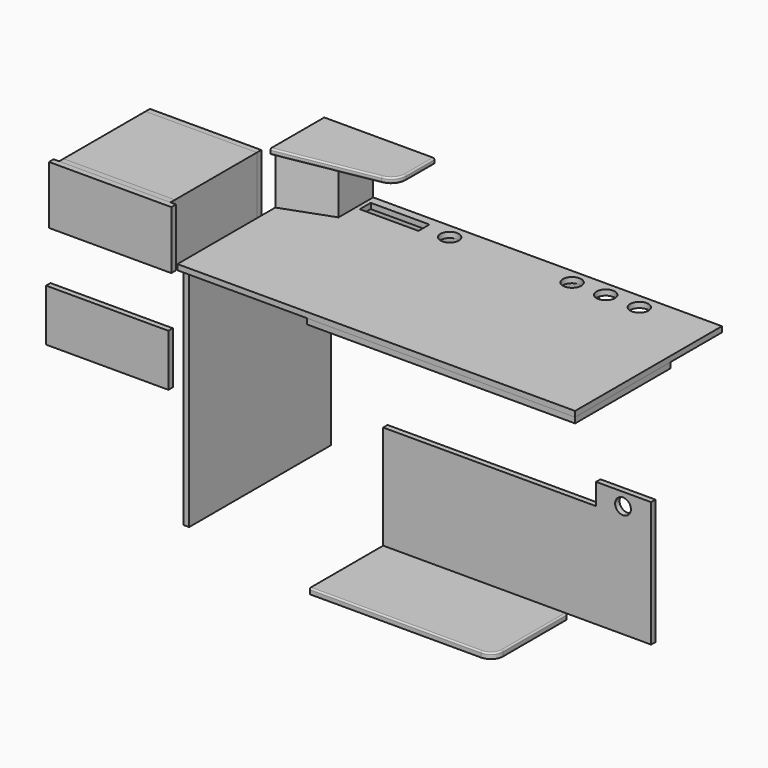
from build123d import *

# Parameters (mm, degrees)
F0_W      = 1300
F0_H      = 600
F0_W_2    = 192
F0_H_2    = 45
F0_R      = 30
F1_DEPTH  = 18
F2_W      = 876
F2_H      = 18
F3_DEPTH  = 60
F4_W      = 876
F4_H      = 138
F4_R      = 30
F5_DEPTH  = 18
F6_W      = 580
F6_H      = 740
F7_DEPTH  = 18
F9_DEPTH  = 160
F11_DEPTH = 18
F12_R     = 5
F13_W     = 364
F13_H     = 190
F13_R     = 55
F14_DEPTH = 18
F15_W     = 364
F15_H     = 190
F15_W_2   = 328
F15_H_2   = 154
F16_DEPTH = 335
F17_W     = 400
F17_H     = 190
F17_R     = 82.5
F18_DEPTH = 18
F19_W     = 364
F19_H     = 190
F20_DEPTH = 18
F21_W     = 876
F21_H     = 390
F22_DEPTH = 18
F23_R     = 25.726034
F24_DEPTH = 18
F26_DEPTH = 18
F27_R     = 5
F28_W     = 400
F28_H     = 170
F29_DEPTH = 18
F30_W     = 400
F30_H     = 190
F31_DEPTH = 1


with BuildPart() as f1:
    # F0 (on Top) → F1 (new body)
    with BuildSketch(Plane.XY):
        Rectangle(F0_W, F0_H)
        with Locations((-380, 250)):
            Rectangle(F0_W_2, F0_H_2, mode=Mode.SUBTRACT)
        with Locations((-200, 250)):
            Circle(F0_R, mode=Mode.SUBTRACT)
        with Locations((200, 250)):
            Circle(F0_R, mode=Mode.SUBTRACT)
        with Locations((310, 250)):
            Circle(F0_R, mode=Mode.SUBTRACT)
        with Locations((420, 250)):
            Circle(F0_R, mode=Mode.SUBTRACT)
    extrude(amount=F1_DEPTH)


with BuildPart() as f3:
    # F2 (on face) → F3 (new body)
    with BuildSketch(Plane(origin=(0, 0, 0), x_dir=(1, 0, 0), z_dir=(0, 0, -1))):
        with Locations((-189.740443, -291)):
            Rectangle(F2_W, F2_H)
    extrude(amount=F3_DEPTH)


with BuildPart() as f5:
    # F4 (on face) → F5 (new body)
    with BuildSketch(Plane(origin=(0, 0, -60), x_dir=(1, 0, 0), z_dir=(0, 0, -1))):
        with Locations((-189.740443, -231)):
            Rectangle(F4_W, F4_H)
        with Locations((188.259557, -230.498597)):
            Circle(F4_R, mode=Mode.SUBTRACT)
    extrude(amount=F5_DEPTH)


with BuildPart() as f7:
    # F6 (on face) → F7 (new body)
    with BuildSketch(Plane(origin=(-627.740443, 0, 0), x_dir=(0, -1, 0), z_dir=(-1, 0, 0))):
        with Locations((-10, -370)):
            Rectangle(F6_W, F6_H)
    extrude(amount=F7_DEPTH)


with BuildPart() as f9:
    # F8 (on face) → F9 (new body)
    with BuildSketch(Plane.XY.offset(18)):
        Polygon((-490, 300), (-650, 300), (-650, 100), (-490, 158.235237), align=None)
    extrude(amount=F9_DEPTH)


with BuildPart() as f11:
    # F10 (on face) → F11 (new body)
    with BuildSketch(Plane.XY.offset(178)):
        with BuildLine():
            Line((-650, 300), (-650, 80))
            Line((-650, 80), (-331.317591, 136.192307))
            ThreePointArc((-331.317591, 136.192307), (-301.697778, 153.293314), (-290, 185.432695))
            Line((-290, 185.432695), (-290, 300))
            Line((-290, 300), (-650, 300))
        make_face()
    extrude(amount=F11_DEPTH)

    # F12
    f12_edges = [f11.edges().sort_by_distance(p)[0] for p in [
        (-490.658796, 108.096153, 196),
        (-301.697778, 153.293314, 196),
        (-290, 242.716347, 196),
        (-490.658796, 108.096153, 178),
        (-301.697778, 153.293314, 178),
        (-290, 242.716347, 178),
    ]]
    fillet(f12_edges, radius=F12_R)


with BuildPart() as f14:
    # F13 (on Front) → F14 (new body)
    with BuildSketch(Plane.XZ):
        with Locations((-1080.317497, -95)):
            Rectangle(F13_W, F13_H)
        with Locations((-1080.317497, -95)):
            Circle(F13_R, mode=Mode.SUBTRACT)
    extrude(amount=F14_DEPTH)


with BuildPart() as f16:
    # F15 (on face) → F16 (new body)
    with BuildSketch(Plane(origin=(0, 0, 0), x_dir=(-1, 0, 0), z_dir=(0, 1, 0))):
        with Locations((1080.317497, -95)):
            Rectangle(F15_W, F15_H)
        with Locations((1080.317497, -95)):
            Rectangle(F15_W_2, F15_H_2, mode=Mode.SUBTRACT)
    extrude(amount=F16_DEPTH)


with BuildPart() as f18:
    # F17 (on face) → F18 (new body)
    with BuildSketch(Plane.XZ.offset(18)):
        with Locations((-1080.317497, -95)):
            Rectangle(F17_W, F17_H)
        with Locations((-1080.317497, -95)):
            Circle(F17_R, mode=Mode.SUBTRACT)
    extrude(amount=F18_DEPTH)


with BuildPart() as f20:
    # F19 (on face) → F20 (new body)
    with BuildSketch(Plane(origin=(0, 335, 0), x_dir=(-1, 0, 0), z_dir=(0, 1, 0))):
        with Locations((1080.317497, -95)):
            Rectangle(F19_W, F19_H)
    extrude(amount=F20_DEPTH)


with BuildPart() as f22:
    # F21 (on face) → F22 (new body)
    with BuildSketch(Plane(origin=(0, 0, 0), x_dir=(1, 0, 0), z_dir=(0, 0, -1))):
        with Locations((212, 105)):
            Rectangle(F21_W, F21_H)
    extrude(amount=F22_DEPTH)


with BuildPart() as f24:
    # F23 (on Front) → F24 (new body)
    with BuildSketch(Plane.XZ):
        Polygon((-202.982641, -761.721503), (673.017359, -761.721503), (673.017359, -351.721503), (493.017359, -351.721503), (493.017359, -421.721503), (-202.982641, -421.721503), align=None)
        with Locations((581.099927, -393.661082)):
            Circle(F23_R, mode=Mode.SUBTRACT)
    extrude(amount=F24_DEPTH)


with BuildPart() as f26:
    # F25 (on face) → F26 (new body)
    with BuildSketch(Plane(origin=(0, 0, -761.721503), x_dir=(1, 0, 0), z_dir=(0, 0, -1))):
        with BuildLine():
            Line((-202.982641, 318), (-202.982641, 18))
            Line((-202.982641, 18), (397.017359, 18))
            Line((397.017359, 18), (397.017359, 278))
            ThreePointArc((397.017359, 278), (385.301631, 306.284271), (357.017359, 318))
            Line((357.017359, 318), (-202.982641, 318))
        make_face()
    extrude(amount=F26_DEPTH)

    # F27
    f27_edges = [f26.edges().sort_by_distance(p)[0] for p in [
        (77.017359, -318, -761.721503),
        (385.301631, -306.284271, -761.721503),
        (397.017359, -148, -761.721503),
    ]]
    fillet(f27_edges, radius=F27_R)


with BuildPart() as f29:
    # F28 (on face) → F29 (new body)
    with BuildSketch(Plane.XZ.offset(36)):
        with Locations((-1076.199204, -432.686272)):
            Rectangle(F28_W, F28_H)
    extrude(amount=F29_DEPTH)


with BuildPart() as f31:
    # F30 (on face) → F31 (new body)
    with BuildSketch(Plane.XZ.offset(36)):
        with Locations((-1080.317497, -95)):
            Rectangle(F30_W, F30_H)
    extrude(amount=F31_DEPTH)


solid = Compound([f1.part, f3.part, f5.part, f7.part, f9.part, f11.part, f14.part, f16.part, f18.part, f20.part, f22.part, f24.part, f26.part, f29.part, f31.part])
